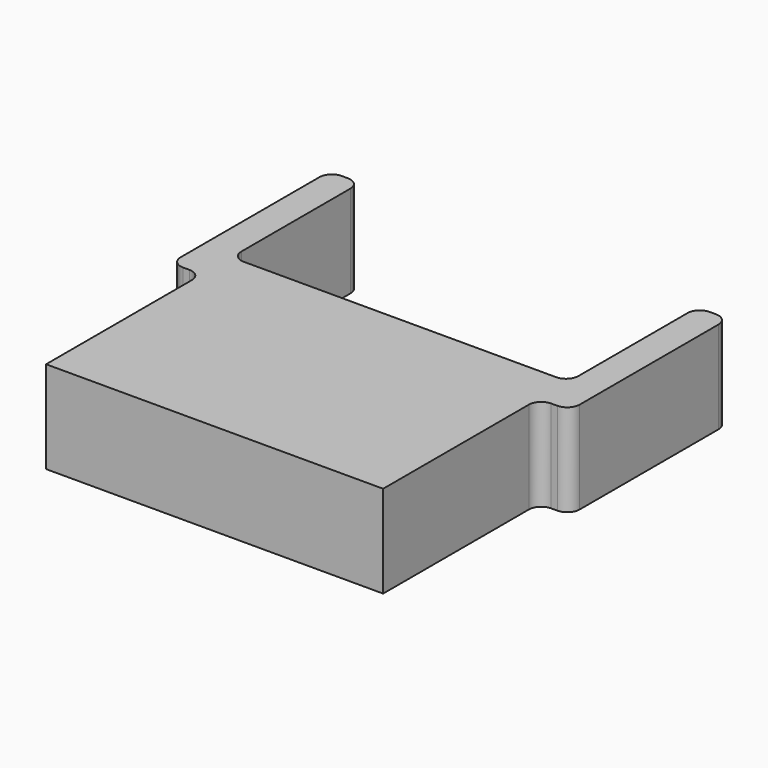
from build123d import *

# Parameters (mm, degrees)
PAD_DEPTH = 7.45
FILLET_R  = 1


with BuildPart() as part:
    # Sketch → Pad (new body)
    with BuildSketch(Plane.XY):
        Polygon((0, 0), (27.2, 0), (27.2, 15.7), (29.7, 15.7), (29.7, 31.7), (27.2, 31.7), (27.2, 18.7), (0, 18.7), (0, 31.7), (-2.5, 31.7), (-2.5, 15.7), (0, 15.7), align=None)
    extrude(amount=PAD_DEPTH)

    # Fillet
    fillet_edges = [part.edges().sort_by_distance(p)[0] for p in [
        (0, 18.7, 3.725),
        (0, 31.7, 3.725),
        (-2.5, 31.7, 3.725),
        (27.2, 31.7, 3.725),
        (29.7, 31.7, 3.725),
        (29.7, 15.7, 3.725),
        (27.2, 18.7, 3.725),
        (-2.5, 15.7, 3.725),
        (0, 15.7, 3.725),
        (27.2, 15.7, 3.725),
    ]]
    fillet(fillet_edges, radius=FILLET_R)


solid = part.part
